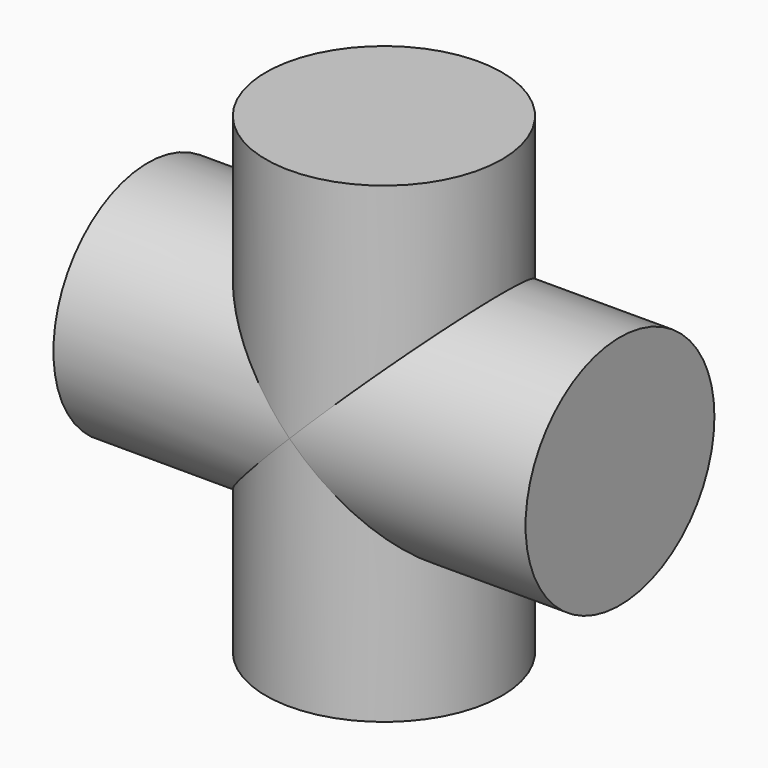
from build123d import *

# Parameters (mm, degrees)
F0_R     = 3.175
F1_DEPTH = 6.35
F2_R     = 3.175
F3_DEPTH = 6.35


with BuildPart() as f1:
    # F0 (on Top) → F1 (new body, symmetric)
    with BuildSketch(Plane.XY):
        Circle(F0_R)
    extrude(amount=F1_DEPTH, both=True)

    # F2 (on Right) → F3 (join, symmetric)
    with BuildSketch(Plane.YZ):
        Circle(F2_R)
    extrude(amount=F3_DEPTH, both=True)


solid = f1.part
